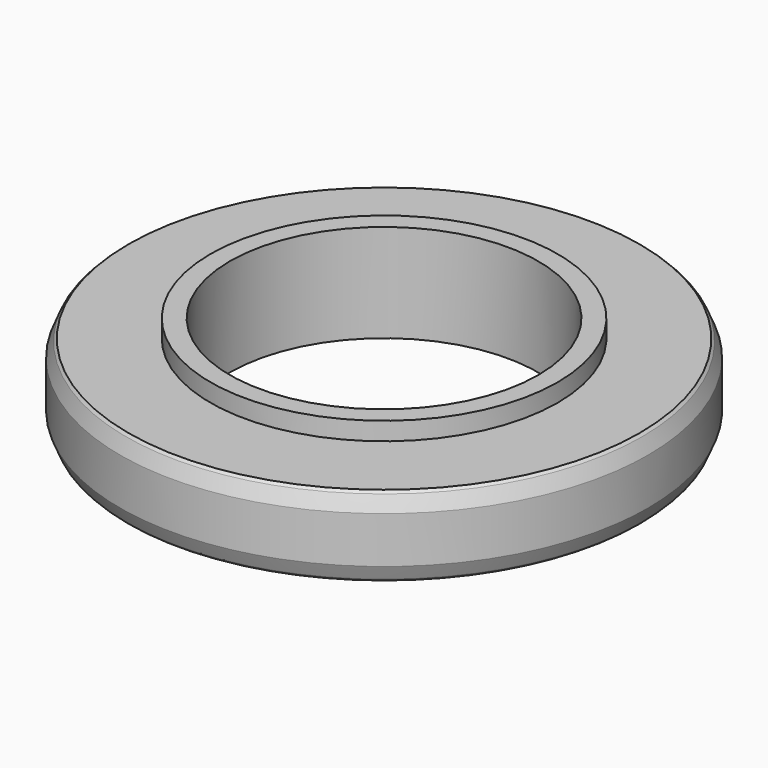
from build123d import *

# Parameters (mm, degrees)
F0_R     = 19
F0_R_2   = 12.5
F1_DEPTH = 5.75
F0_R_3   = 11.1
F2_DEPTH = 7.05
F3_SIZE  = 0.6
F4_SIZE  = 0.6


with BuildPart() as f1:
    # F0 (on Top) → F1 (new body)
    with BuildSketch(Plane.XY):
        with Locations((-89.7258073092, 31.1653446406)):
            Circle(F0_R)
        with Locations((-89.7258073092, 31.1653446406)):
            Circle(F0_R_2, mode=Mode.SUBTRACT)
    extrude(amount=F1_DEPTH)

    # F0 (on Top) → F2 (join)
    with BuildSketch(Plane.XY):
        with Locations((-89.7258073092, 31.1653446406)):
            Circle(F0_R_2)
        with Locations((-89.7258073092, 31.1653446406)):
            Circle(F0_R_3, mode=Mode.SUBTRACT)
    extrude(amount=F2_DEPTH)

    # F3
    f3_edges = [f1.edges().sort_by_distance(p)[0] for p in [
        (-108.725807, 31.165345, 5.75),
        (-108.725807, 31.165345, 0),
    ]]
    chamfer(f3_edges, length=F3_SIZE)

    # F4
    f4_edges = [f1.edges().sort_by_distance(p)[0] for p in [
        (-108.725807, 31.165345, 5.15),
        (-108.725807, 31.165345, 0.6),
    ]]
    chamfer(f4_edges, length=F4_SIZE)


solid = f1.part
